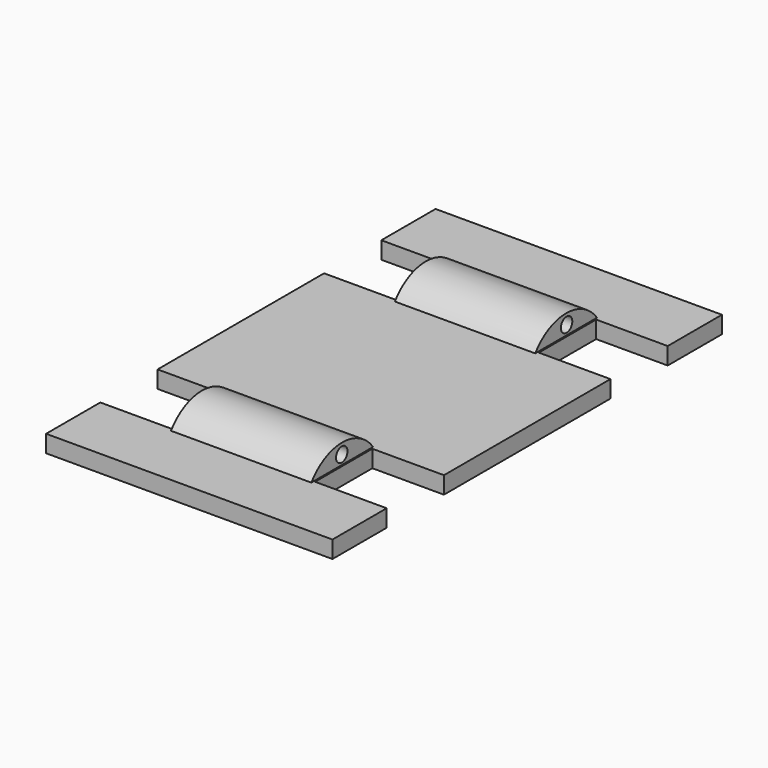
from build123d import *

# Parameters (mm, degrees)
F1_DEPTH = 0.6
F2_R     = 0.5
F3_DEPTH = 4.9


with BuildPart() as f1:
    # F0 (on Top) → F1 (new body, symmetric)
    with BuildSketch(Plane.XY):
        Polygon((10, 12.267178), (10, 17), (-10, 17), (-10, 12.267178), (-5, 12.267178), (-5, 7.267178), (-10, 7.267178), (-10, -7.267178), (-5, -7.267178), (-5, -12.267178), (-10, -12.267178), (-10, -17), (10, -17), (10, -12.267178), (5, -12.267178), (5, -7.267178), (10, -7.267178), (10, 7.267178), (5, 7.267178), (5, 12.267178), align=None)
    extrude(amount=F1_DEPTH, both=True)

    # F2 (on Right) → F3 (join, symmetric)
    with BuildSketch(Plane.YZ):
        with BuildLine():
            Line((-12.487299, 0.57844), (-7.044992, 0.55921))
            ThreePointArc((-7.044992, 0.55921), (-9.761185, 1.972687), (-12.487299, 0.57844))
        make_face()
        with Locations((-9.814223, 1.251517)):
            Circle(F2_R, mode=Mode.SUBTRACT)
        with BuildLine():
            ThreePointArc((12.487299, 0.57844), (9.761185, 1.972687), (7.044992, 0.55921))
            Line((7.044992, 0.55921), (12.487299, 0.57844))
        make_face()
        with Locations((9.814223, 1.251517)):
            Circle(F2_R, mode=Mode.SUBTRACT)
    extrude(amount=F3_DEPTH, both=True)


solid = f1.part
